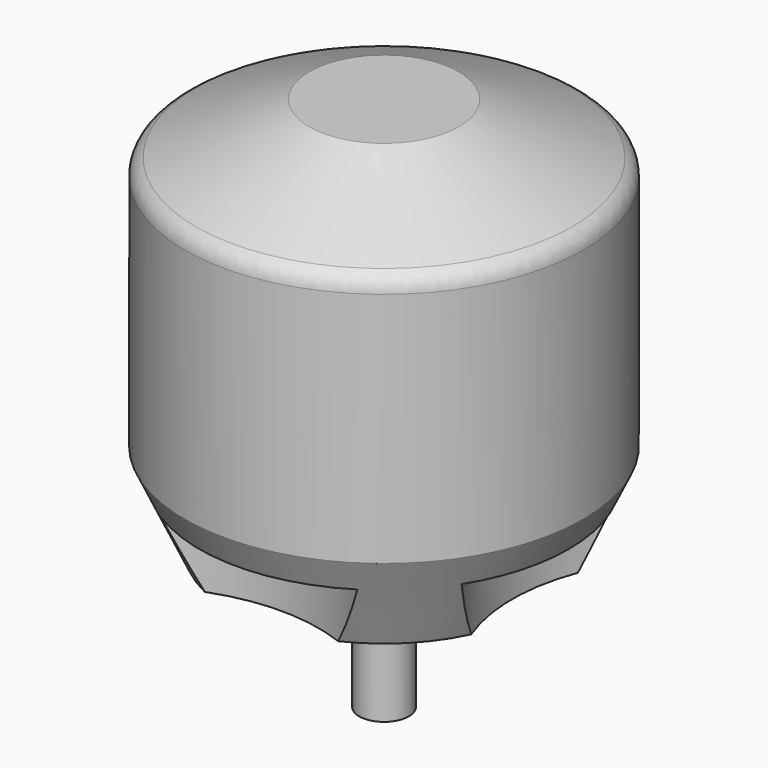
from build123d import *

# Parameters (mm, degrees)
F0_R     = 32
F1_DEPTH = 64
F2_SIZE2 = 9
F2_SIZE  = 20
F3_SIZE2 = 7
F3_SIZE  = 15
F4_R     = 3
F5_R     = 30
F7_DEPTH = 10
F6_R     = 4
F8_DEPTH = 22


with BuildPart() as f1:
    # F0 (on Top) → F1 (new body)
    with BuildSketch(Plane.XY):
        Circle(F0_R)
    extrude(amount=F1_DEPTH)

    # F2
    f2_edges = [f1.edges().sort_by_distance(p)[0] for p in [
        (-32, 0, 64),
    ]]
    f2_side = f1.faces().sort_by_distance((0, 0, 64))[0]
    chamfer(f2_edges, length=F2_SIZE, length2=F2_SIZE2, reference=f2_side)

    # F3
    f3_edges = [f1.edges().sort_by_distance(p)[0] for p in [
        (-32, 0, 0),
    ]]
    f3_side = f1.faces().sort_by_distance((-32, 0, 27.5))[0]
    chamfer(f3_edges, length=F3_SIZE, length2=F3_SIZE2, reference=f3_side)

    # F4
    f4_edges = [f1.edges().sort_by_distance(p)[0] for p in [
        (-32, 0, 55),
    ]]
    fillet(f4_edges, radius=F4_R)

    # F5 (on face) → F7 (cut)
    with BuildSketch(Plane(origin=(0, 0, 0), x_dir=(1, 0, 0), z_dir=(0, 0, -1))):
        with Locations((-50.605738163, 0)):
            Circle(F5_R)
        with Locations((0, -50.605738163)):
            Circle(F5_R)
        with Locations((50.605738163, 0)):
            Circle(F5_R)
        with Locations((0, 50.605738163)):
            Circle(F5_R)
    extrude(amount=-F7_DEPTH, mode=Mode.SUBTRACT)

    # F6 (on face) → F8 (join)
    with BuildSketch(Plane(origin=(0, 0, 0), x_dir=(1, 0, 0), z_dir=(0, 0, -1))):
        Circle(F6_R)
    extrude(amount=F8_DEPTH)


solid = f1.part
